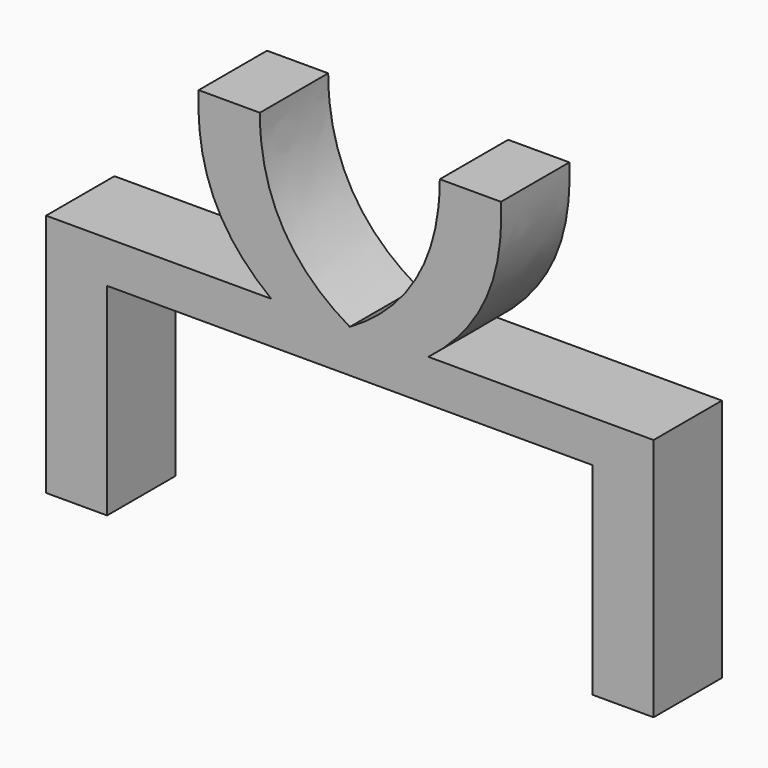
from build123d import *

# Parameters (mm, degrees)
F1_DEPTH = 7


with BuildPart() as f1:
    # F0 (on Front) → F1 (new body)
    with BuildSketch(Plane.XZ):
        Polygon((-0.1155218482, -1.7187305692), (0.1155218482, -1.7187305692), (19.8844781518, -1.7187305692), (24.8844781518, -1.7187305692), (24.8844781518, 1.7187305692), (6.4380932599, 1.7187305692), (0.1155218482, 1.7187305692), (-0.1155218482, 1.7187305692), (-6.4380932599, 1.7187305692), (-24.8844781518, 1.7187305692), (-24.8844781518, -1.7187305692), (-19.8844781518, -1.7187305692), align=None)
        Polygon((24.8844781518, -1.7187305692), (19.8844781518, -1.7187305692), (19.8844781518, -2.12807746), (19.8844781518, -18.2812694308), (24.8844781518, -18.2812694308), align=None)
        Polygon((-19.8844781518, -2.12807746), (-19.8844781518, -1.7187305692), (-24.8844781518, -1.7187305692), (-24.8844781518, -18.2812694308), (-19.8844781518, -18.2812694308), align=None)
        with BuildLine():
            Line((0.1155218482, 1.7187305692), (6.4380932599, 1.7187305692))
            add(Edge.make_bspline(
                [(6.4380932599, 1.7187305692), (11.1033758149, 5.3184241988), (12.5962682068, 9.6104862168), (12.3844781518, 14.8356053978)],
                knots=[0, 0, 0, 0, 14.4018019203, 14.4018019203, 14.4018019203, 14.4018019203], degree=3))
            Line((12.3844781518, 14.8356053978), (7.3711490259, 14.8356053978))
            add(Edge.make_bspline(
                [(0, 1.7855821599), (5.5306343269, 5.0119990558), (7.3711490259, 9.8317778697), (7.3711490259, 14.8356053978)],
                knots=[0.1039507684, 0.1039507684, 0.1039507684, 0.1039507684, 15.1030674383, 15.1030674383, 15.1030674383, 15.1030674383], degree=3))
            add(Edge.make_bspline(
                [(0.1155218482, 1.7187305692), (0.0768369139, 1.7409375888), (0.0383298364, 1.7632216088), (0, 1.7855821599)],
                knots=[0, 0, 0, 0, 0.1039507684, 0.1039507684, 0.1039507684, 0.1039507684], degree=3))
        make_face()
        with BuildLine():
            add(Edge.make_bspline(
                [(-6.4380932599, 1.7187305692), (-11.1033758149, 5.3184241988), (-12.5962682068, 9.6104862168), (-12.3844781518, 14.8356053978)],
                knots=[0, 0, 0, 0, 14.4018019203, 14.4018019203, 14.4018019203, 14.4018019203], degree=3))
            Line((-6.4380932599, 1.7187305692), (-0.1155218482, 1.7187305692))
            add(Edge.make_bspline(
                [(-0.1155218482, 1.7187305692), (-0.0768369139, 1.7409375888), (-0.0383298364, 1.7632216088), (0, 1.7855821599)],
                knots=[0, 0, 0, 0, 0.1039507684, 0.1039507684, 0.1039507684, 0.1039507684], degree=3))
            add(Edge.make_bspline(
                [(0, 1.7855821599), (-5.5306343269, 5.0119990558), (-7.3711490259, 9.8317778697), (-7.3711490259, 14.8356053978)],
                knots=[0.1039507684, 0.1039507684, 0.1039507684, 0.1039507684, 15.1030674383, 15.1030674383, 15.1030674383, 15.1030674383], degree=3))
            Line((-7.3711490259, 14.8356053978), (-12.3844781518, 14.8356053978))
        make_face()
        with BuildLine():
            Line((-0.1155218482, 1.7187305692), (0.1155218482, 1.7187305692))
            add(Edge.make_bspline(
                [(0.1155218482, 1.7187305692), (0.0768369139, 1.7409375888), (0.0383298364, 1.7632216088), (0, 1.7855821599)],
                knots=[0, 0, 0, 0, 0.1039507684, 0.1039507684, 0.1039507684, 0.1039507684], degree=3))
            add(Edge.make_bspline(
                [(-0.1155218482, 1.7187305692), (-0.0768369139, 1.7409375888), (-0.0383298364, 1.7632216088), (0, 1.7855821599)],
                knots=[0, 0, 0, 0, 0.1039507684, 0.1039507684, 0.1039507684, 0.1039507684], degree=3))
        make_face()
    extrude(amount=F1_DEPTH)


solid = f1.part
